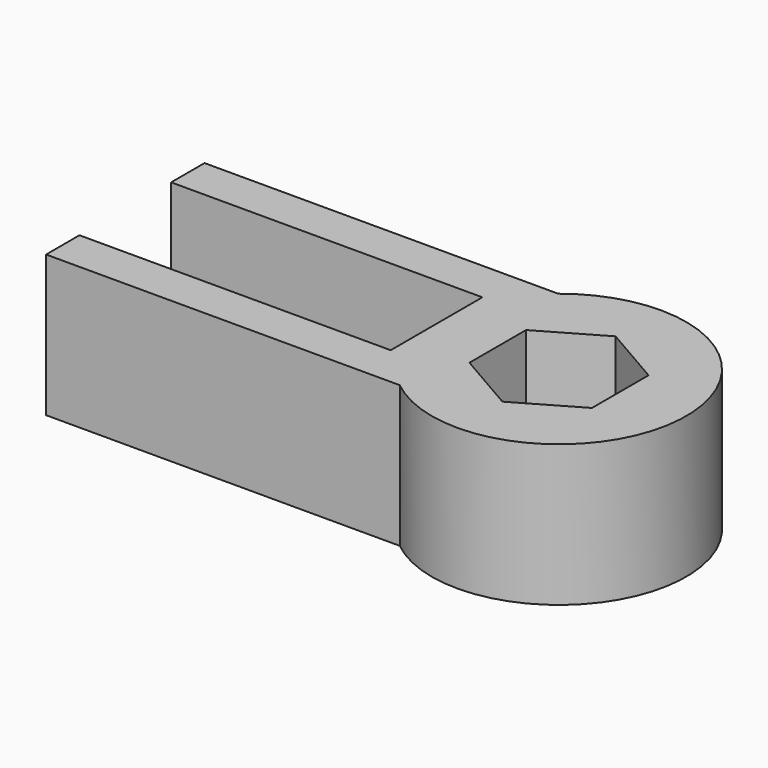
from build123d import *

# Parameters (mm, degrees)
PAD_DEPTH     = 10
SKETCH001_R   = 6
SKETCH001_R_2 = 3.8
PAD001_DEPTH  = 2


with BuildPart() as part:
    # Sketch → Pad (new body)
    with BuildSketch(Plane.XY):
        with BuildLine():
            Line((-55.40988, 26.565392), (-30.40988, 26.565392))
            ThreePointArc((-30.40988, 12.565392), (-15.753026, 19.565392), (-30.40988, 26.565392))
            Line((-30.40988, 12.565392), (-55.40988, 12.565392))
            Line((-55.40988, 12.565392), (-55.40988, 15.515392))
            Line((-55.40988, 15.515392), (-33.40988, 15.515392))
            Line((-33.40988, 15.515392), (-33.40988, 23.615392))
            Line((-55.40988, 23.615392), (-33.40988, 23.615392))
            Line((-55.40988, 26.565392), (-55.40988, 23.615392))
        make_face()
        Polygon((-20.422899, 22.065392), (-20.422899, 17.065392), (-24.753026, 14.565392), (-29.083153, 17.065392), (-29.083153, 22.065392), (-24.753026, 24.565392), align=None, mode=Mode.SUBTRACT)
    extrude(amount=PAD_DEPTH)

    # Sketch001 → Pad001 (new body)
    with BuildSketch(Plane(origin=(0, 0, 0), x_dir=(1, 0, 0), z_dir=(0, 0, -1))):
        with Locations((-24.70988, -19.565392)):
            Circle(SKETCH001_R)
        with Locations((-24.70988, -19.565392)):
            Circle(SKETCH001_R_2, mode=Mode.SUBTRACT)
    extrude(amount=-PAD001_DEPTH)


solid = part.part
